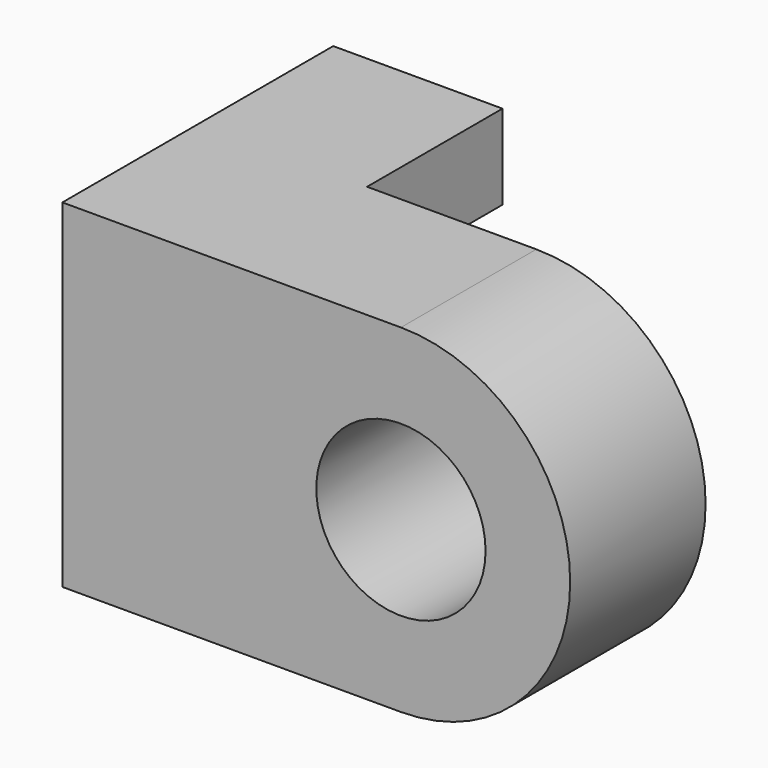
from build123d import *

# Parameters (mm, degrees)
F1_DEPTH = 25.4
F3_DEPTH = 12.7
F4_R     = 6.35
F5_DEPTH = 25.4
F6_W     = 6.35
F6_H     = 12.7
F7_DEPTH = 25.4


with BuildPart() as f1:
    # F0 (on Front) → F1 (new body)
    with BuildSketch(Plane.XZ):
        with BuildLine():
            Line((0, 25.4), (0, 0))
            Line((0, 0), (25.4, 0))
            ThreePointArc((25.4, 0), (38.1, 12.7), (25.4, 25.4))
            Line((25.4, 25.4), (0, 25.4))
        make_face()
    extrude(amount=F1_DEPTH)

    # F2 (on Front) → F3 (cut)
    with BuildSketch(Plane.XZ):
        with BuildLine():
            Line((25.400002, 25.4), (12.7, 25.4))
            Line((12.7, 25.4), (12.7, 0))
            Line((12.7, 0), (25.400002, 0))
            ThreePointArc((25.400002, 0), (38.100002, 12.7), (25.400002, 25.4))
        make_face()
    extrude(amount=F3_DEPTH, mode=Mode.SUBTRACT)

    # F4 (on Front) → F5 (cut)
    with BuildSketch(Plane.XZ):
        with Locations((25.4, 12.7)):
            Circle(F4_R)
    extrude(amount=F5_DEPTH, mode=Mode.SUBTRACT)

    # F6 (on Right) → F7 (cut)
    with BuildSketch(Plane.YZ):
        with Locations((-3.175, 12.7)):
            Rectangle(F6_W, F6_H)
    extrude(amount=F7_DEPTH, mode=Mode.SUBTRACT)


solid = f1.part
